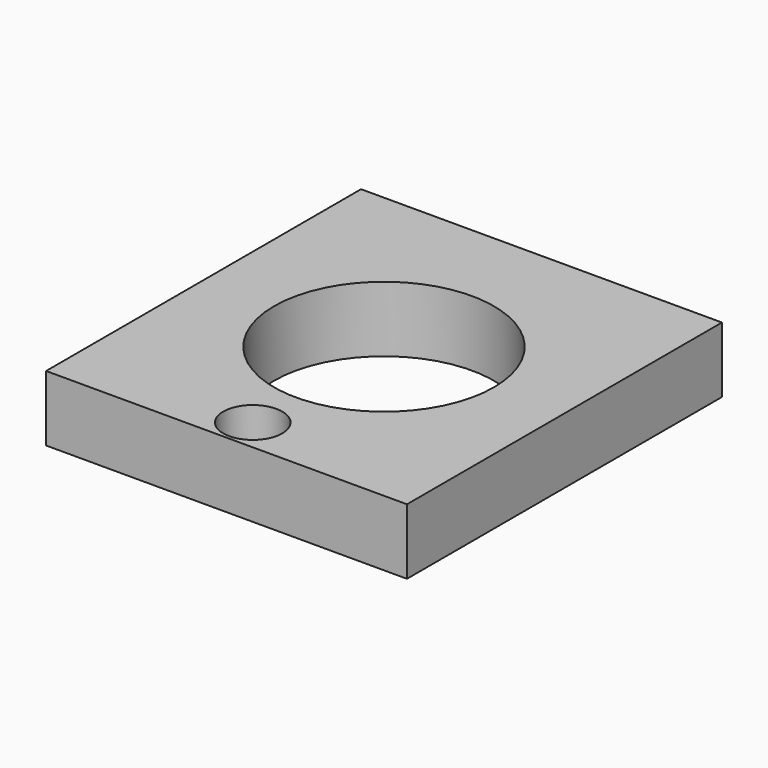
from build123d import *

# Parameters (mm, degrees)
F0_W     = 22
F0_H     = 24
F3_DEPTH = 4
F4_D     = 13.4
F5_D     = 3.6


with BuildPart() as f3:
    # F0 (on Top) → F3 (new body)
    with BuildSketch(Plane.XY):
        Rectangle(F0_W, F0_H)
    extrude(amount=F3_DEPTH)

    # F4 (through all)
    with Locations(Plane(origin=(0, 0, 0), x_dir=(1, 0, 0), z_dir=(0, 0, -1))):
        with Locations((0, 0)):
            Hole(F4_D / 2)

    # F5 (through all)
    with Locations(Plane(origin=(0, 0, 0), x_dir=(1, 0, 0), z_dir=(0, 0, -1))):
        with Locations((0, 10)):
            Hole(F5_D / 2)


solid = f3.part
